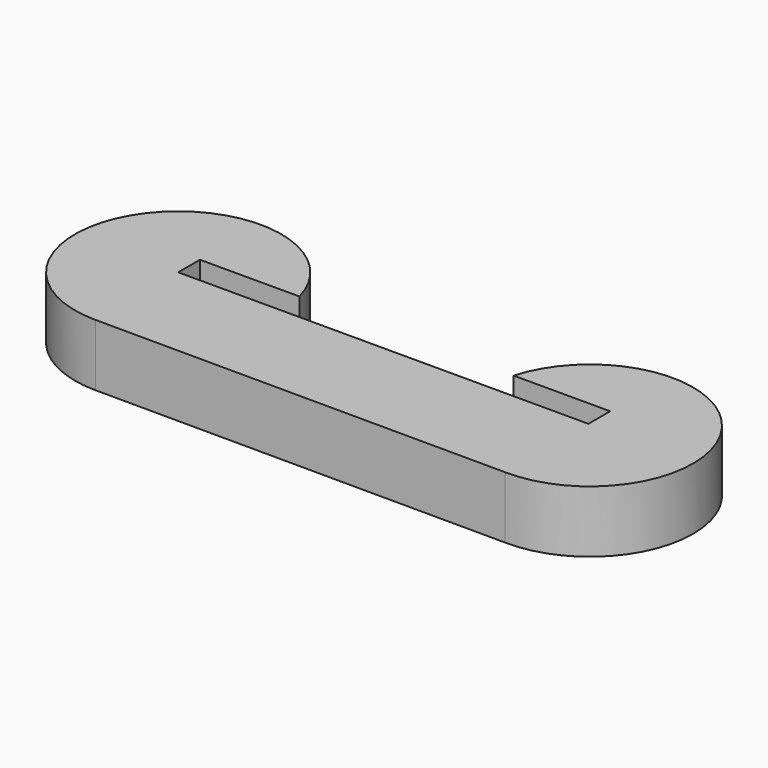
from build123d import *

# Parameters (mm, degrees)
F1_DEPTH = 3


with BuildPart() as f1:
    # F0 (on Top) → F1 (new body)
    with BuildSketch(Plane.XY):
        with BuildLine():
            Line((-19.875096, -5), (0, -5.064514))
            ThreePointArc((0, -5.064514), (4.157614, 2.88981), (-4.679296, 1.319445))
            Line((-4.679296, 1.319445), (0, 1.319445))
            Line((0, 1.319445), (0, 0))
            Line((0, 0), (-19.875096, 0))
            Line((-19.875096, 0), (-19.875096, 1.319445))
            Line((-19.875096, 1.319445), (-15.052331, 1.319445))
            ThreePointArc((-15.052331, 1.319445), (-23.849843, 3.033379), (-19.875096, -5))
        make_face()
    extrude(amount=F1_DEPTH)


solid = f1.part
